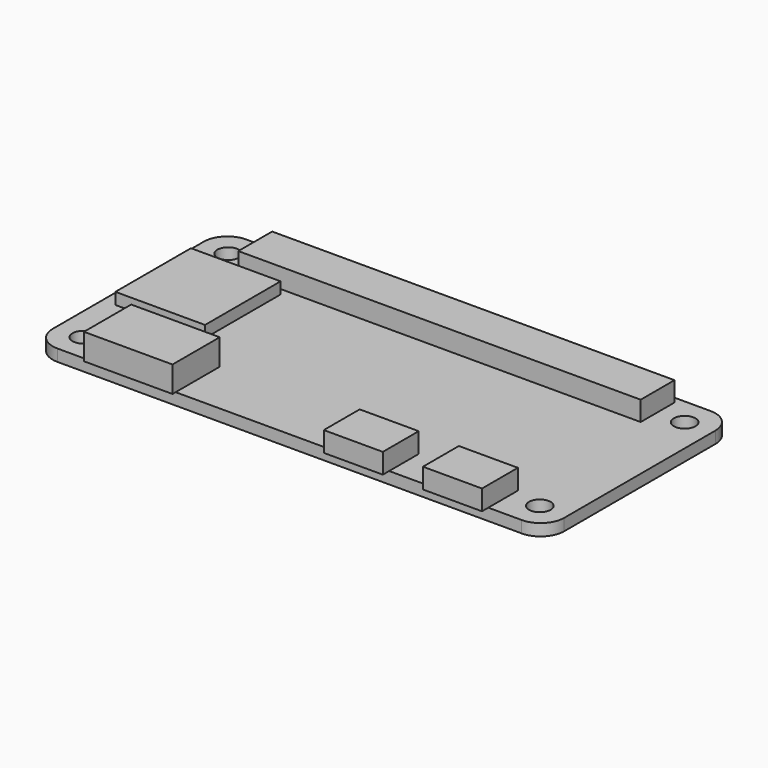
from build123d import *

# Parameters (mm, degrees)
F0_W     = 65
F0_H     = 30
F1_DEPTH = 1.5
F3_D     = 2.75
F4_R     = 3
F5_W     = 7.5
F5_H     = 4.7
F5_H_2   = 1
F6_DEPTH = 2.55
F5_W_2   = 11.25
F5_H_3   = 7
F5_H_4   = 0.5
F7_DEPTH = 3.3
F5_W_3   = 11.39
F5_H_5   = 12
F8_DEPTH = 1.47
F5_W_4   = 51.125
F5_H_6   = 5.375
F9_DEPTH = 2.5


with BuildPart() as f1:
    # F0 (on Top) → F1 (new body)
    with BuildSketch(Plane.XY):
        Rectangle(F0_W, F0_H)
    extrude(amount=F1_DEPTH)

    # F3 (through all)
    with Locations(Plane.XY.offset(1.5)):
        with Locations((-29, 11.5), (-29, -11.5), (29, -11.5), (29, 11.5)):
            Hole(F3_D / 2)

    # F4
    f4_edges = [f1.edges().sort_by_distance(p)[0] for p in [
        (-32.5, -15, 0.75),
        (-32.5, 15, 0.75),
        (32.5, -15, 0.75),
        (32.5, 15, 0.75),
    ]]
    fillet(f4_edges, radius=F4_R)

    # F5 (on face) → F6 (join)
    with BuildSketch(Plane.XY.offset(1.5)):
        with Locations((8.9, -12.65)):
            Rectangle(F5_W, F5_H)
        with Locations((8.9, -15.5)):
            Rectangle(F5_W, F5_H_2)
        with Locations((21.5, -15.5)):
            Rectangle(F5_W, F5_H_2)
        with Locations((21.5, -12.65)):
            Rectangle(F5_W, F5_H)
    extrude(amount=F6_DEPTH)

    # F5 (on face) → F7 (join)
    with BuildSketch(Plane.XY.offset(1.5)):
        with Locations((-20.1, -11.5)):
            Rectangle(F5_W_2, F5_H_3)
        with Locations((-20.1, -15.25)):
            Rectangle(F5_W_2, F5_H_4)
    extrude(amount=F7_DEPTH)

    # F5 (on face) → F8 (join)
    with BuildSketch(Plane.XY.offset(1.5)):
        with Locations((-25.155, 1.9)):
            Rectangle(F5_W_3, F5_H_5)
    extrude(amount=F8_DEPTH)

    # F5 (on face) → F9 (join)
    with BuildSketch(Plane.XY.offset(1.5)):
        with Locations((0, 11.5)):
            Rectangle(F5_W_4, F5_H_6)
    extrude(amount=F9_DEPTH)


solid = f1.part
